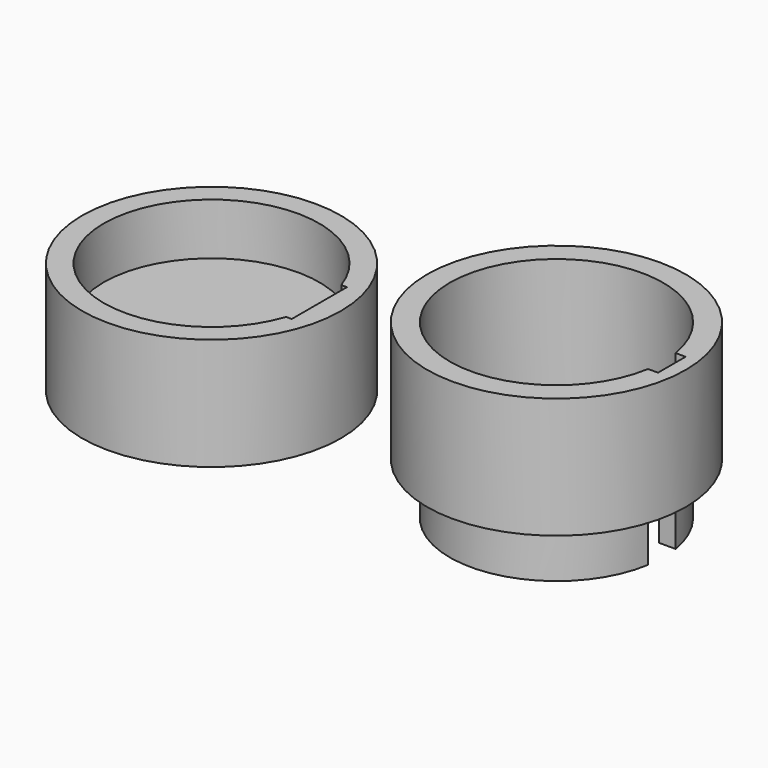
from build123d import *

# Parameters (mm, degrees)
F1_DEPTH = 1
F0_R     = 15
F2_DEPTH = 14
F3_DEPTH = 6
F4_DEPTH = 6
F5_DEPTH = 4.5
F6_START = -4.5
F6_DEPTH = 2.5


with BuildPart() as f1:
    # F0 (on Top) → F1 (new body)
    with BuildSketch(Plane.XY):
        with BuildLine():
            Line((10.307764064, 2), (12.2123144817, 2))
            ThreePointArc((12.2123144817, 2), (-12.375, 0), (12.2123144817, -2))
            Line((12.2123144817, -2), (10.307764064, -2))
            ThreePointArc((10.307764064, -2), (-10.5, 0), (10.307764064, 2))
        make_face()
        with BuildLine():
            Line((9.5, 2), (10.307764064, 2))
            ThreePointArc((10.307764064, 2), (-10.5, 0), (10.307764064, -2))
            Line((10.307764064, -2), (9.5, -2))
            Line((9.5, -2), (9.5, 2))
        make_face()
    extrude(amount=F1_DEPTH)

    # F0 (on Top) → F2 (join)
    with BuildSketch(Plane.XY):
        Circle(F0_R)
        with BuildLine():
            ThreePointArc((12.2123144817, -2), (-12.375, 0), (12.2123144817, 2))
            Line((12.2123144817, 2), (13.375, 2))
            Line((13.375, 2), (13.375, -2))
            Line((13.375, -2), (12.2123144817, -2))
        make_face(mode=Mode.SUBTRACT)
    extrude(amount=F2_DEPTH)

    # F0 (on Top) → F3 (join)
    with BuildSketch(Plane.XY):
        with BuildLine():
            Line((10.307764064, 2), (12.2123144817, 2))
            ThreePointArc((12.2123144817, 2), (-12.375, 0), (12.2123144817, -2))
            Line((12.2123144817, -2), (10.307764064, -2))
            ThreePointArc((10.307764064, -2), (-10.5, 0), (10.307764064, 2))
        make_face()
    extrude(amount=-F3_DEPTH)


with BuildPart() as f4:
    # F0 (on Top) → F4 (new body)
    with BuildSketch(Plane.XY):
        with Locations((-40, 0)):
            Circle(F0_R)
        with BuildLine():
            Line((-27.5, 4), (-27.5, 0))
            Line((-27.5, 0), (-27.5, -4))
            Line((-27.5, -4), (-28.1572807177, -4))
            ThreePointArc((-28.1572807177, -4), (-52.5, 0), (-28.1572807177, 4))
            Line((-28.1572807177, 4), (-27.5, 4))
        make_face(mode=Mode.SUBTRACT)
    extrude(amount=F4_DEPTH)

    # F0 (on Top) → F5 (join)
    with BuildSketch(Plane.XY):
        with Locations((-40, 0)):
            Circle(F0_R)
        with BuildLine():
            Line((-27.5, 4), (-27.5, 0))
            Line((-27.5, 0), (-27.5, -4))
            Line((-27.5, -4), (-28.1572807177, -4))
            ThreePointArc((-28.1572807177, -4), (-52.5, 0), (-28.1572807177, 4))
            Line((-28.1572807177, 4), (-27.5, 4))
        make_face(mode=Mode.SUBTRACT)
        with BuildLine():
            Line((-34.5438540862, 4), (-28.1572807177, 4))
            ThreePointArc((-28.1572807177, 4), (-52.5, 0), (-28.1572807177, -4))
            Line((-28.1572807177, -4), (-34.5438540862, -4))
            Line((-34.5438540862, -4), (-34.5438540862, 4))
        make_face()
    extrude(amount=-F5_DEPTH)

    # F0 (on Top) → F6 (join)
    with BuildSketch(Plane.XY.offset(F6_START)):
        with Locations((-40, 0)):
            Circle(F0_R)
        with BuildLine():
            Line((-27.5, 4), (-27.5, 0))
            Line((-27.5, 0), (-27.5, -4))
            Line((-27.5, -4), (-28.1572807177, -4))
            ThreePointArc((-28.1572807177, -4), (-52.5, 0), (-28.1572807177, 4))
            Line((-28.1572807177, 4), (-27.5, 4))
        make_face(mode=Mode.SUBTRACT)
        with BuildLine():
            Line((-34.5438540862, 4), (-28.1572807177, 4))
            ThreePointArc((-28.1572807177, 4), (-52.5, 0), (-28.1572807177, -4))
            Line((-28.1572807177, -4), (-34.5438540862, -4))
            Line((-34.5438540862, -4), (-34.5438540862, 4))
        make_face()
        with BuildLine():
            Line((-34.1469270431, 3.125), (-27.8969270431, 3.125))
            ThreePointArc((-27.8969270431, 3.125), (-28.0191132323, 3.5648775938), (-28.1572807177, 4))
            Line((-28.1572807177, 4), (-34.5438540862, 4))
            Line((-34.5438540862, 4), (-34.5438540862, -4))
            Line((-34.5438540862, -4), (-28.1572807177, -4))
            ThreePointArc((-28.1572807177, -4), (-28.0191132323, -3.5648775938), (-27.8969270431, -3.125))
            Line((-27.8969270431, -3.125), (-34.1469270431, -3.125))
            Line((-34.1469270431, -3.125), (-34.1469270431, 3.125))
        make_face()
        with BuildLine():
            ThreePointArc((-27.8969270431, -3.125), (-27.5996287967, -1.575053656), (-27.5, 0))
            ThreePointArc((-27.5, 0), (-27.5996287967, 1.575053656), (-27.8969270431, 3.125))
            Line((-27.8969270431, 3.125), (-27.8969270431, -3.125))
        make_face()
        with BuildLine():
            ThreePointArc((-27.8969270431, 3.125), (-27.5996287967, 1.575053656), (-27.5, 0))
            Line((-27.5, 0), (-27.5, 4))
            Line((-27.5, 4), (-28.1572807177, 4))
            ThreePointArc((-28.1572807177, 4), (-28.0191132323, 3.5648775938), (-27.8969270431, 3.125))
        make_face()
        with BuildLine():
            Line((-27.5, -4), (-27.5, 0))
            ThreePointArc((-27.5, 0), (-27.5996287967, -1.575053656), (-27.8969270431, -3.125))
            ThreePointArc((-27.8969270431, -3.125), (-28.0191132323, -3.5648775938), (-28.1572807177, -4))
            Line((-28.1572807177, -4), (-27.5, -4))
        make_face()
    extrude(amount=-F6_DEPTH)


with BuildPart() as f1_1:
    # F7: moved
    add(f1.part.moved(Location((0, 0, -1))))


solid = Compound([f4.part, f1_1.part])
